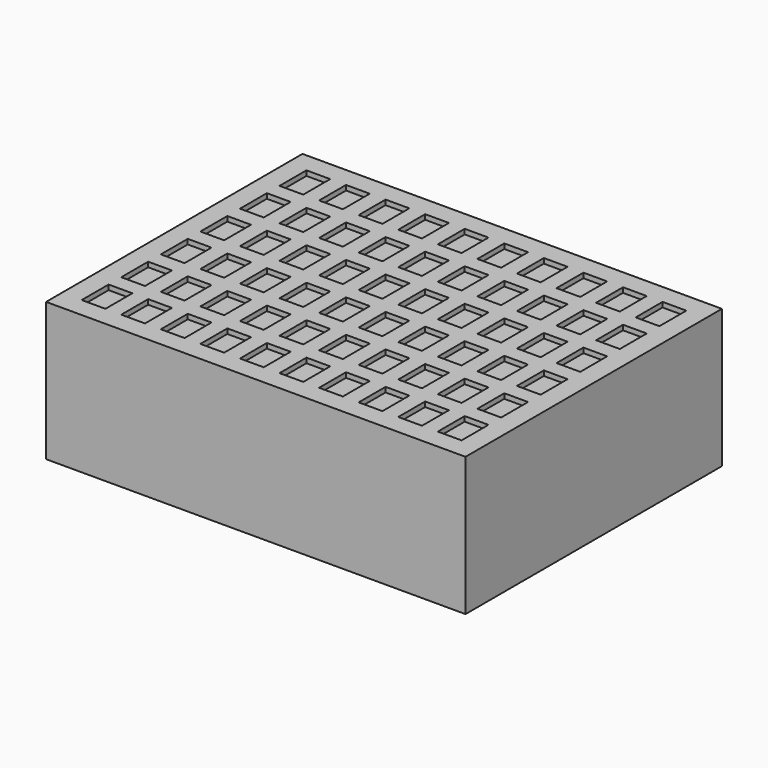
from build123d import *

# Parameters (mm, degrees)
F0_W     = 42.4
F0_H     = 32.4
F1_DEPTH = 14
F2_W     = 2.4
F2_H     = 3.4
F3_DEPTH = 0.5


with BuildPart() as f1:
    # F0 (on Top) → F1 (new body)
    with BuildSketch(Plane.XY):
        with Locations((21.2, -16.2)):
            Rectangle(F0_W, F0_H)
    extrude(amount=F1_DEPTH)

    # F2 (on face) → F3 (cut)
    with BuildSketch(Plane.XY.offset(14)):
        with Locations((27.2, -8.7)):
            Rectangle(F2_W, F2_H)
        with Locations((15.2, -18.7)):
            Rectangle(F2_W, F2_H)
        with Locations((35.2, -28.7)):
            Rectangle(F2_W, F2_H)
        with Locations((39.2, -3.7)):
            Rectangle(F2_W, F2_H)
        with Locations((27.2, -13.7)):
            Rectangle(F2_W, F2_H)
        with Locations((15.2, -23.7)):
            Rectangle(F2_W, F2_H)
        with Locations((39.2, -8.7)):
            Rectangle(F2_W, F2_H)
        with Locations((27.2, -18.7)):
            Rectangle(F2_W, F2_H)
        with Locations((15.2, -28.7)):
            Rectangle(F2_W, F2_H)
        with Locations((39.2, -13.7)):
            Rectangle(F2_W, F2_H)
        with Locations((27.2, -23.7)):
            Rectangle(F2_W, F2_H)
        with Locations((19.2, -3.7)):
            Rectangle(F2_W, F2_H)
        with Locations((31.2, -28.7)):
            Rectangle(F2_W, F2_H)
        with Locations((23.2, -8.7)):
            Rectangle(F2_W, F2_H)
        with Locations((39.2, -18.7)):
            Rectangle(F2_W, F2_H)
        with Locations((27.2, -28.7)):
            Rectangle(F2_W, F2_H)
        with Locations((19.2, -8.7)):
            Rectangle(F2_W, F2_H)
        with Locations((39.2, -23.7)):
            Rectangle(F2_W, F2_H)
        with Locations((31.2, -3.7)):
            Rectangle(F2_W, F2_H)
        with Locations((19.2, -13.7)):
            Rectangle(F2_W, F2_H)
        with Locations((19.2, -28.7)):
            Rectangle(F2_W, F2_H)
        with Locations((31.2, -18.7)):
            Rectangle(F2_W, F2_H)
        with Locations((39.2, -28.7)):
            Rectangle(F2_W, F2_H)
        with Locations((31.2, -8.7)):
            Rectangle(F2_W, F2_H)
        with Locations((19.2, -18.7)):
            Rectangle(F2_W, F2_H)
        with Locations((23.2, -3.7)):
            Rectangle(F2_W, F2_H)
        with Locations((31.2, -23.7)):
            Rectangle(F2_W, F2_H)
        with Locations((31.2, -13.7)):
            Rectangle(F2_W, F2_H)
        with Locations((19.2, -23.7)):
            Rectangle(F2_W, F2_H)
        with Locations((23.2, -13.7)):
            Rectangle(F2_W, F2_H)
        with Locations((11.2, -23.7)):
            Rectangle(F2_W, F2_H)
        with Locations((35.2, -3.7)):
            Rectangle(F2_W, F2_H)
        with Locations((23.2, -18.7)):
            Rectangle(F2_W, F2_H)
        with Locations((11.2, -28.7)):
            Rectangle(F2_W, F2_H)
        with Locations((35.2, -8.7)):
            Rectangle(F2_W, F2_H)
        with Locations((23.2, -23.7)):
            Rectangle(F2_W, F2_H)
        with Locations((15.2, -3.7)):
            Rectangle(F2_W, F2_H)
        with Locations((35.2, -13.7)):
            Rectangle(F2_W, F2_H)
        with Locations((11.2, -18.7)):
            Rectangle(F2_W, F2_H)
        with Locations((11.2, -8.7)):
            Rectangle(F2_W, F2_H)
        with Locations((11.2, -13.7)):
            Rectangle(F2_W, F2_H)
        with Locations((3.2, -3.7)):
            Rectangle(F2_W, F2_H)
        with Locations((3.2, -8.7)):
            Rectangle(F2_W, F2_H)
        with Locations((3.2, -13.7)):
            Rectangle(F2_W, F2_H)
        with Locations((3.2, -18.7)):
            Rectangle(F2_W, F2_H)
        with Locations((3.2, -23.7)):
            Rectangle(F2_W, F2_H)
        with Locations((3.2, -28.7)):
            Rectangle(F2_W, F2_H)
        with Locations((7.2, -3.7)):
            Rectangle(F2_W, F2_H)
        with Locations((7.2, -8.7)):
            Rectangle(F2_W, F2_H)
        with Locations((7.2, -13.7)):
            Rectangle(F2_W, F2_H)
        with Locations((7.2, -18.7)):
            Rectangle(F2_W, F2_H)
        with Locations((7.2, -23.7)):
            Rectangle(F2_W, F2_H)
        with Locations((7.2, -28.7)):
            Rectangle(F2_W, F2_H)
        with Locations((11.2, -3.7)):
            Rectangle(F2_W, F2_H)
        with Locations((23.2, -28.7)):
            Rectangle(F2_W, F2_H)
        with Locations((15.2, -8.7)):
            Rectangle(F2_W, F2_H)
        with Locations((35.2, -18.7)):
            Rectangle(F2_W, F2_H)
        with Locations((27.2, -3.7)):
            Rectangle(F2_W, F2_H)
        with Locations((15.2, -13.7)):
            Rectangle(F2_W, F2_H)
        with Locations((35.2, -23.7)):
            Rectangle(F2_W, F2_H)
    extrude(amount=-F3_DEPTH, mode=Mode.SUBTRACT)


solid = f1.part
